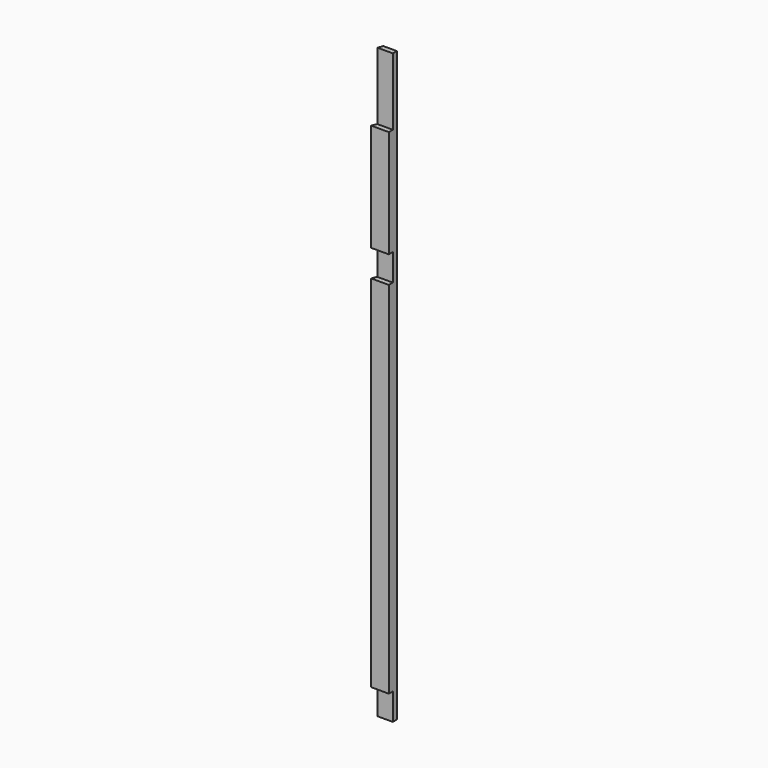
from build123d import *

# Parameters (mm, degrees)
F1_DEPTH = 1111.25
F2_W     = 122.435573
F2_H     = 50.8
F2_W_2   = 93.867282
F2_W_3   = 343.160421
F2_H_2   = 127
F3_DEPTH = 25.4
F4_R     = 0.79375
F5_DEPTH = 25.4


with BuildPart() as f1:
    # F0 (on Top) → F1 (new body)
    with BuildSketch(Plane.XY):
        Polygon((25.4, -9.525), (25.4, 9.525), (0, 9.525), (-7.890768, -9.525), align=None)
    extrude(amount=F1_DEPTH)

    # F2 (on Front) → F3 (cut)
    with BuildSketch(Plane.XZ):
        with Locations((22.446524, 25.4)):
            Rectangle(F2_W, F2_H)
        with Locations((2.720783, 755.65)):
            Rectangle(F2_W_2, F2_H)
        with Locations((-38.781822, 1047.75)):
            Rectangle(F2_W_3, F2_H_2)
    extrude(amount=F3_DEPTH, mode=Mode.SUBTRACT)

    # F4 (on Front) → F5 (cut)
    with BuildSketch(Plane.XZ):
        with Locations((12.7, 101.6)):
            Circle(F4_R)
        with Locations((12.7, 155.575)):
            Circle(F4_R)
        with Locations((12.7, 625.475)):
            Circle(F4_R)
        with Locations((12.7, 679.45)):
            Circle(F4_R)
        with Locations((-12.7, 625.475)):
            Circle(F4_R)
        with Locations((-12.7, 679.45)):
            Circle(F4_R)
        with Locations((-12.7, 101.6)):
            Circle(F4_R)
        with Locations((-12.7, 155.575)):
            Circle(F4_R)
    extrude(amount=-F5_DEPTH, mode=Mode.SUBTRACT)


solid = f1.part
